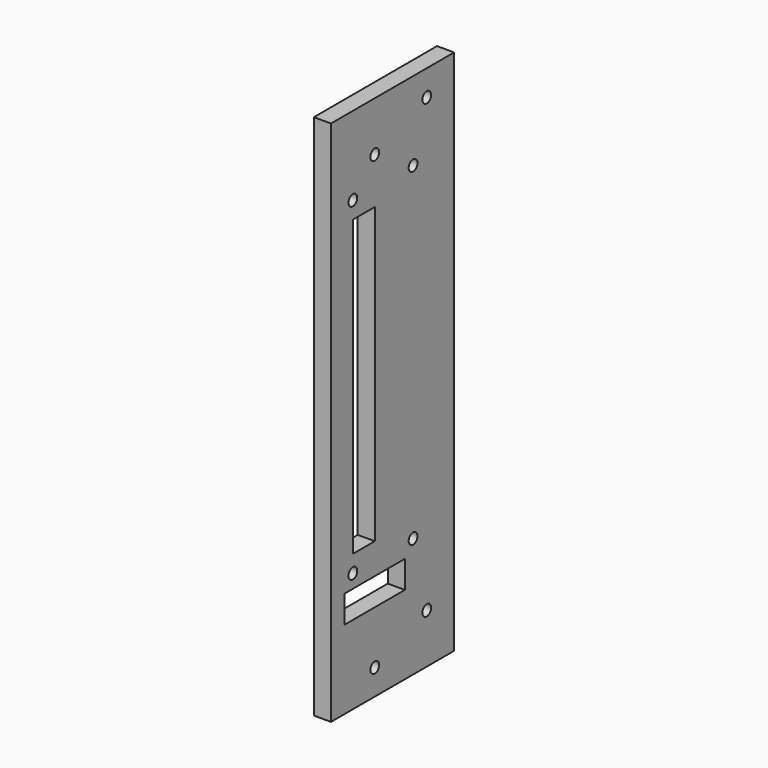
from build123d import *

# Parameters (mm, degrees)
CYLINDER081_R           = 1.6
CYLINDER081_DEPTH       = 40
CYLINDER081_PITCH_ANGLE = 90
CYLINDER077_R           = 1.6
CYLINDER077_DEPTH       = 40
CYLINDER077_PITCH_ANGLE = 90
CYLINDER076_R           = 1.6
CYLINDER076_DEPTH       = 40
CYLINDER076_PITCH_ANGLE = 90
CYLINDER080_R           = 1.6
CYLINDER080_DEPTH       = 40
CYLINDER080_PITCH_ANGLE = 90
CYLINDER079_R           = 1.6
CYLINDER079_DEPTH       = 40
CYLINDER079_PITCH_ANGLE = 90
CYLINDER078_R           = 1.6
CYLINDER078_DEPTH       = 40
CYLINDER078_PITCH_ANGLE = 90
BOX028_W                = 10
BOX028_H                = 22
BOX028_DEPTH            = 8
CYLINDER019_R           = 1.6
CYLINDER019_DEPTH       = 40
CYLINDER019_PITCH_ANGLE = 90
CYLINDER018_R           = 1.6
CYLINDER018_DEPTH       = 40
CYLINDER018_PITCH_ANGLE = 90
CYLINDER017_R           = 1.6
CYLINDER017_DEPTH       = 40
CYLINDER016_R           = 1.6
CYLINDER016_DEPTH       = 70
CYLINDER016_ROLL_ANGLE  = 90
CYLINDER015_R           = 1.6
CYLINDER015_DEPTH       = 40
BOX016_W                = 10
BOX016_H                = 8
BOX016_DEPTH            = 86
BOX014_W                = 5
BOX014_H                = 45
BOX014_DEPTH            = 154


with BuildPart() as cylinder359:
    # Cylinder081 → Cylinder081 (new body)
    with BuildSketch(Plane.XY):
        Circle(CYLINDER081_R)
    extrude(amount=CYLINDER081_DEPTH)


with BuildPart() as cylinder359_1:
    # Cylinder081 pitch: moved
    add(cylinder359.part.rotate(Axis((0, 0, 0), (0, 1, 0)), CYLINDER081_PITCH_ANGLE))


with BuildPart() as cylinder359_2:
    # Cylinder081 placement: moved
    add(cylinder359_1.part.moved(Location((-67, 7, 126))))


with BuildPart() as cylinder355:
    # Cylinder077 → Cylinder077 (new body)
    with BuildSketch(Plane.XY):
        Circle(CYLINDER077_R)
    extrude(amount=CYLINDER077_DEPTH)


with BuildPart() as cylinder355_1:
    # Cylinder077 pitch: moved
    add(cylinder355.part.rotate(Axis((0, 0, 0), (0, 1, 0)), CYLINDER077_PITCH_ANGLE))


with BuildPart() as cylinder355_2:
    # Cylinder077 placement: moved
    add(cylinder355_1.part.moved(Location((-67, -15, 30))))


with BuildPart() as rocker_screw_holes_d001:
    # Cylinder076 → Cylinder076 (new body)
    with BuildSketch(Plane.XY):
        Circle(CYLINDER076_R)
    extrude(amount=CYLINDER076_DEPTH)


with BuildPart() as rocker_screw_holes_d001_1:
    # Cylinder076 pitch: moved
    add(rocker_screw_holes_d001.part.rotate(Axis((0, 0, 0), (0, 1, 0)), CYLINDER076_PITCH_ANGLE))


with BuildPart() as rocker_screw_holes_d001_2:
    # Cylinder076 placement: moved
    add(rocker_screw_holes_d001_1.part.moved(Location((-87, -7, 30))))

    # Fusion051: union Cylinder355
    add(cylinder355_2.part)


with BuildPart() as rocker_screw_holes_d001_3:
    # Fusion051 placement: moved
    add(rocker_screw_holes_d001_2.part.moved(Location((0, 0, 96))))

    # Fusion054: union Cylinder359
    add(cylinder359_2.part)


with BuildPart() as cylinder358:
    # Cylinder080 → Cylinder080 (new body)
    with BuildSketch(Plane.XY):
        Circle(CYLINDER080_R)
    extrude(amount=CYLINDER080_DEPTH)


with BuildPart() as cylinder358_1:
    # Cylinder080 pitch: moved
    add(cylinder358.part.rotate(Axis((0, 0, 0), (0, 1, 0)), CYLINDER080_PITCH_ANGLE))


with BuildPart() as cylinder358_2:
    # Cylinder080 placement: moved
    add(cylinder358_1.part.moved(Location((-67, 7, 30))))


with BuildPart() as cylinder357:
    # Cylinder079 → Cylinder079 (new body)
    with BuildSketch(Plane.XY):
        Circle(CYLINDER079_R)
    extrude(amount=CYLINDER079_DEPTH)


with BuildPart() as cylinder357_1:
    # Cylinder079 pitch: moved
    add(cylinder357.part.rotate(Axis((0, 0, 0), (0, 1, 0)), CYLINDER079_PITCH_ANGLE))


with BuildPart() as cylinder357_2:
    # Cylinder079 placement: moved
    add(cylinder357_1.part.moved(Location((-67, -15, 30))))


with BuildPart() as rocker_screw_holes_c001:
    # Cylinder078 → Cylinder078 (new body)
    with BuildSketch(Plane.XY):
        Circle(CYLINDER078_R)
    extrude(amount=CYLINDER078_DEPTH)


with BuildPart() as rocker_screw_holes_c001_1:
    # Cylinder078 pitch: moved
    add(rocker_screw_holes_c001.part.rotate(Axis((0, 0, 0), (0, 1, 0)), CYLINDER078_PITCH_ANGLE))


with BuildPart() as rocker_screw_holes_c001_2:
    # Cylinder078 placement: moved
    add(rocker_screw_holes_c001_1.part.moved(Location((-87, -7, 30))))

    # Fusion052: union Cylinder357
    add(cylinder357_2.part)

    # Fusion053: union Cylinder358
    add(cylinder358_2.part)


with BuildPart() as cube016:
    # Box028 → Box028 (new body)
    with BuildSketch(Plane(origin=(-37, -18, 18), x_dir=(1, 0, 0), z_dir=(0, 0, 1))):
        with Locations((5, 11)):
            Rectangle(BOX028_W, BOX028_H)
    extrude(amount=BOX028_DEPTH)


with BuildPart() as cylinder100:
    # Cylinder019 → Cylinder019 (new body)
    with BuildSketch(Plane.XY):
        Circle(CYLINDER019_R)
    extrude(amount=CYLINDER019_DEPTH)


with BuildPart() as cylinder100_1:
    # Cylinder019 pitch: moved
    add(cylinder100.part.rotate(Axis((0, 0, 0), (0, 1, 0)), CYLINDER019_PITCH_ANGLE))


with BuildPart() as cylinder100_2:
    # Cylinder019 placement: moved
    add(cylinder100_1.part.moved(Location((-40, 12, 9.5))))


with BuildPart() as fusion011:
    # Cylinder018 → Cylinder018 (new body)
    with BuildSketch(Plane.XY):
        Circle(CYLINDER018_R)
    extrude(amount=CYLINDER018_DEPTH)


with BuildPart() as fusion011_1:
    # Cylinder018 pitch: moved
    add(fusion011.part.rotate(Axis((0, 0, 0), (0, 1, 0)), CYLINDER018_PITCH_ANGLE))


with BuildPart() as fusion011_2:
    # Cylinder018 placement: moved
    add(fusion011_1.part.moved(Location((-40, -7, 2.5))))

    # Fusion011: union Cylinder100
    add(cylinder100_2.part)


with BuildPart() as fusion012:
    # Cylinder017 → Cylinder017 (new body)
    with BuildSketch(Plane(origin=(-27.5, 7, -15), x_dir=(1, 0, 0), z_dir=(0, 0, 1))):
        Circle(CYLINDER017_R)
    extrude(amount=CYLINDER017_DEPTH)

    # Fusion012: union Fusion011
    add(fusion011_2.part)


with BuildPart() as fusion013:
    # Cylinder016 → Cylinder016 (new body)
    with BuildSketch(Plane.XY):
        Circle(CYLINDER016_R)
    extrude(amount=CYLINDER016_DEPTH)


with BuildPart() as fusion013_1:
    # Cylinder016 roll: moved
    add(fusion013.part.rotate(Axis((0, 0, 0), (1, 0, 0)), CYLINDER016_ROLL_ANGLE))


with BuildPart() as fusion013_2:
    # Cylinder016 placement: moved
    add(fusion013_1.part.moved(Location((-24, 39, 6))))

    # Fusion013: union Fusion012
    add(fusion012.part)


with BuildPart() as cylinder008:
    # Cylinder015 → Cylinder015 (new body)
    with BuildSketch(Plane(origin=(-20.5, -12, -15), x_dir=(1, 0, 0), z_dir=(0, 0, 1))):
        Circle(CYLINDER015_R)
    extrude(amount=CYLINDER015_DEPTH)


with BuildPart() as face_corner_holes010:
    # Fusion024 base: copy of Cylinder008
    add(cylinder008.part)

    # Fusion024: union Fusion013
    add(fusion013_2.part)


with BuildPart() as face_corner_holes010_1:
    # Fusion024 placement: moved
    add(face_corner_holes010.part.moved(Location((0, 0, 132))))


with BuildPart() as face_corner_holes:
    # Fusion014 base: copy of Cylinder008
    add(cylinder008.part)

    # Fusion014: union Fusion013
    add(fusion013_2.part)


with BuildPart() as string_hole:
    # Box016 → Box016 (new body)
    with BuildSketch(Plane(origin=(-36, -15, 35), x_dir=(1, 0, 0), z_dir=(0, 0, 1))):
        with Locations((5, 4)):
            Rectangle(BOX016_W, BOX016_H)
    extrude(amount=BOX016_DEPTH)


with BuildPart() as bottom_a:
    # Box014 → Box014 (new body)
    with BuildSketch(Plane(origin=(-35, -23, -5), x_dir=(1, 0, 0), z_dir=(0, 0, 1))):
        with Locations((2.5, 22.5)):
            Rectangle(BOX014_W, BOX014_H)
    extrude(amount=BOX014_DEPTH)

    # Cut007: cut string-hole
    add(string_hole.part, mode=Mode.SUBTRACT)

    # Cut012: cut face-corner-holes
    add(face_corner_holes.part, mode=Mode.SUBTRACT)

    # Cut021: cut face-corner-holes010
    add(face_corner_holes010_1.part, mode=Mode.SUBTRACT)

    # Cut034: cut Cube016
    add(cube016.part, mode=Mode.SUBTRACT)

    # Cut043: cut rocker-screw-holes-c001
    add(rocker_screw_holes_c001_2.part, mode=Mode.SUBTRACT)

    # Cut044: cut rocker-screw-holes-d001
    add(rocker_screw_holes_d001_3.part, mode=Mode.SUBTRACT)


solid = bottom_a.part
